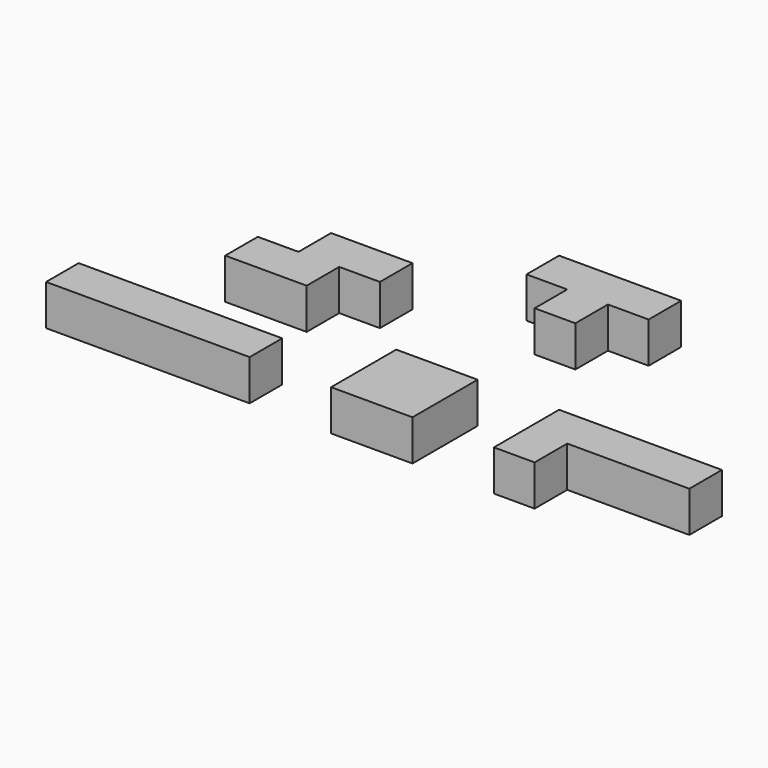
from build123d import *

# Parameters (mm, degrees)
BOX_W        = 10
BOX_H        = 10
BOX_DEPTH    = 5
BOX004_W     = 5
BOX004_H     = 5
BOX004_DEPTH = 5
BOX003_W     = 20
BOX003_H     = 5
BOX003_DEPTH = 5
BOX005_W     = 15
BOX005_H     = 5
BOX005_DEPTH = 5
BOX006_W     = 5
BOX006_H     = 5
BOX006_DEPTH = 5
BOX002_W     = 20
BOX002_H     = 5
BOX002_DEPTH = 5
BOX001_W     = 25
BOX001_H     = 5
BOX001_DEPTH = 5
BOX007_W     = 10
BOX007_H     = 5
BOX007_DEPTH = 5
BOX008_W     = 10
BOX008_H     = 5
BOX008_DEPTH = 5


with BuildPart() as cub:
    # Box → Box (new body)
    with BuildSketch(Plane.XY):
        with Locations((5, 5)):
            Rectangle(BOX_W, BOX_H)
    extrude(amount=BOX_DEPTH)


with BuildPart() as cub004:
    # Box004 → Box004 (new body)
    with BuildSketch(Plane(origin=(20, 0, 0), x_dir=(1, 0, 0), z_dir=(0, 0, 1))):
        with Locations((2.5, 2.5)):
            Rectangle(BOX004_W, BOX004_H)
    extrude(amount=BOX004_DEPTH)


with BuildPart() as fusion:
    # Box003 → Box003 (new body)
    with BuildSketch(Plane(origin=(20, 5, 0), x_dir=(1, 0, 0), z_dir=(0, 0, 1))):
        with Locations((10, 2.5)):
            Rectangle(BOX003_W, BOX003_H)
    extrude(amount=BOX003_DEPTH)

    # Fusion: union Cub004
    add(cub004.part)


with BuildPart() as cub005:
    # Box005 → Box005 (new body)
    with BuildSketch(Plane(origin=(0, 30, 0), x_dir=(1, 0, 0), z_dir=(0, 0, 1))):
        with Locations((7.5, 2.5)):
            Rectangle(BOX005_W, BOX005_H)
    extrude(amount=BOX005_DEPTH)


with BuildPart() as fusion001:
    # Box006 → Box006 (new body)
    with BuildSketch(Plane(origin=(5, 25, 0), x_dir=(1, 0, 0), z_dir=(0, 0, 1))):
        with Locations((2.5, 2.5)):
            Rectangle(BOX006_W, BOX006_H)
    extrude(amount=BOX006_DEPTH)

    # Fusion001: union Cub005
    add(cub005.part)


with BuildPart() as cub002:
    # Box002 → Box002 (new body)
    with BuildSketch(Plane(origin=(-35, 0, 0), x_dir=(1, 0, 0), z_dir=(0, 0, 1))):
        with Locations((10, 2.5)):
            Rectangle(BOX002_W, BOX002_H)
    extrude(amount=BOX002_DEPTH)


with BuildPart() as fusion002:
    # Box001 → Box001 (new body)
    with BuildSketch(Plane(origin=(-35, 0, 0), x_dir=(1, 0, 0), z_dir=(0, 0, 1))):
        with Locations((12.5, 2.5)):
            Rectangle(BOX001_W, BOX001_H)
    extrude(amount=BOX001_DEPTH)

    # Fusion002: union Cub002
    add(cub002.part)


with BuildPart() as cub007:
    # Box007 → Box007 (new body)
    with BuildSketch(Plane(origin=(-25, 15, 0), x_dir=(1, 0, 0), z_dir=(0, 0, 1))):
        with Locations((5, 2.5)):
            Rectangle(BOX007_W, BOX007_H)
    extrude(amount=BOX007_DEPTH)


with BuildPart() as fusion003:
    # Box008 → Box008 (new body)
    with BuildSketch(Plane(origin=(-20, 20, 0), x_dir=(1, 0, 0), z_dir=(0, 0, 1))):
        with Locations((5, 2.5)):
            Rectangle(BOX008_W, BOX008_H)
    extrude(amount=BOX008_DEPTH)

    # Fusion003: union Cub007
    add(cub007.part)


solid = Compound([cub.part, fusion.part, fusion001.part, fusion002.part, fusion003.part])
